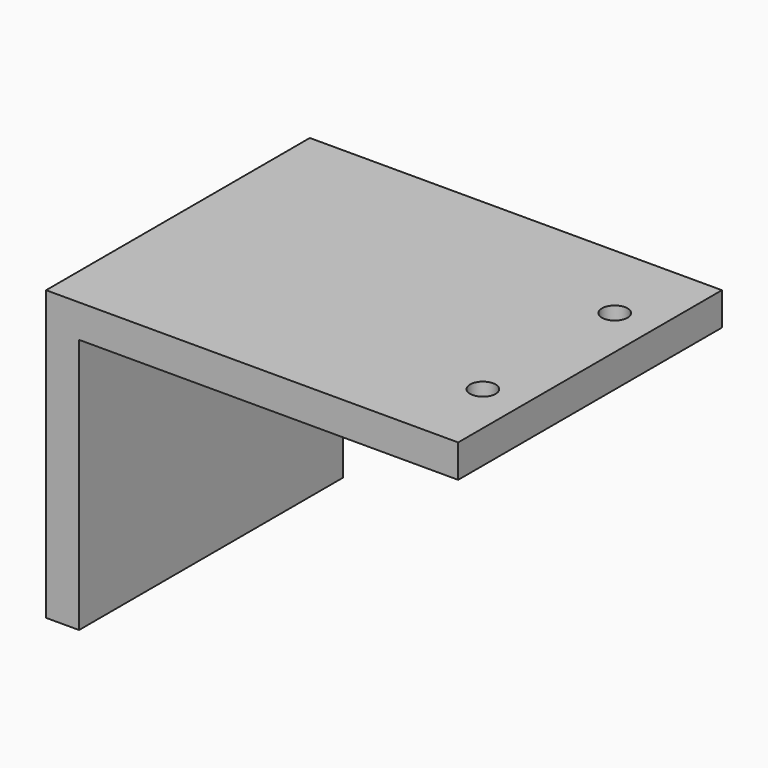
from build123d import *

# Parameters (mm, degrees)
F1_DEPTH = 40
F2_R     = 1.55
F3_DEPTH = 4


with BuildPart() as f1:
    # F0 (on Front) → F1 (new body)
    with BuildSketch(Plane.XZ):
        Polygon((50, 0), (0, 0), (0, -35), (4, -35), (4, -4), (50, -4), align=None)
    extrude(amount=F1_DEPTH)

    # F2 (on face) → F3 (cut, through all)
    with BuildSketch(Plane.XY):
        with Locations((45, -10)):
            Circle(F2_R)
        with Locations((45, -30)):
            Circle(F2_R)
    extrude(amount=-F3_DEPTH, mode=Mode.SUBTRACT)


solid = f1.part
